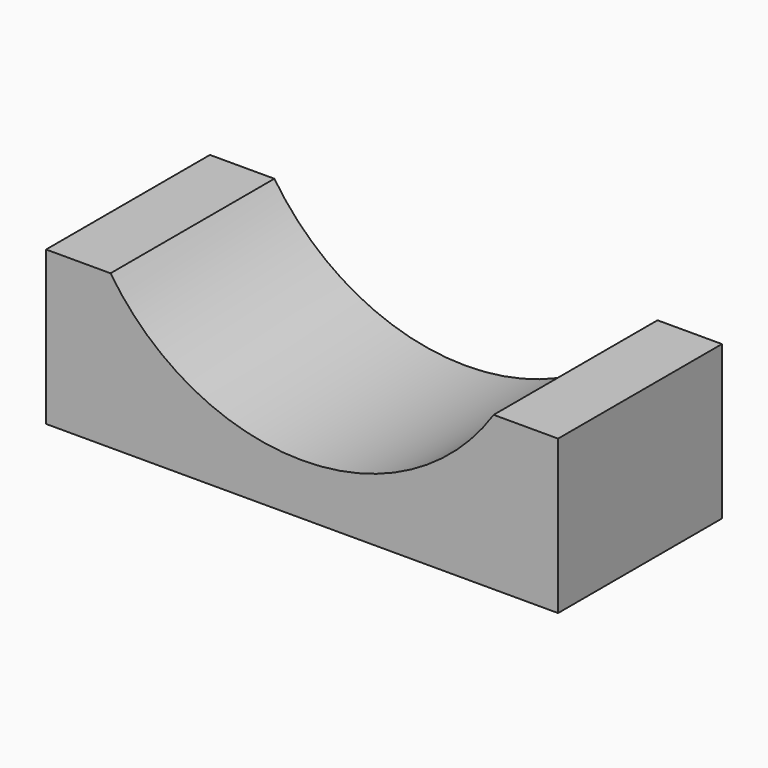
from build123d import *

# Parameters (mm, degrees)
F0_W     = 50
F0_H     = 20
F1_DEPTH = 20
F2_R     = 22.5
F3_DEPTH = 25
F4_W     = 50
F4_H     = 5
F5_DEPTH = 25


with BuildPart() as f1:
    # F0 (on Top) → F1 (new body)
    with BuildSketch(Plane.XY):
        Rectangle(F0_W, F0_H)
    extrude(amount=F1_DEPTH)

    # F2 (on face) → F3 (cut)
    with BuildSketch(Plane.XZ.offset(10)):
        with Locations((0, 32.5)):
            Circle(F2_R)
    extrude(amount=-F3_DEPTH, mode=Mode.SUBTRACT)

    # F4 (on face) → F5 (cut)
    with BuildSketch(Plane.XZ.offset(10)):
        with Locations((0, 2.5)):
            Rectangle(F4_W, F4_H)
    extrude(amount=-F5_DEPTH, mode=Mode.SUBTRACT)


solid = f1.part
